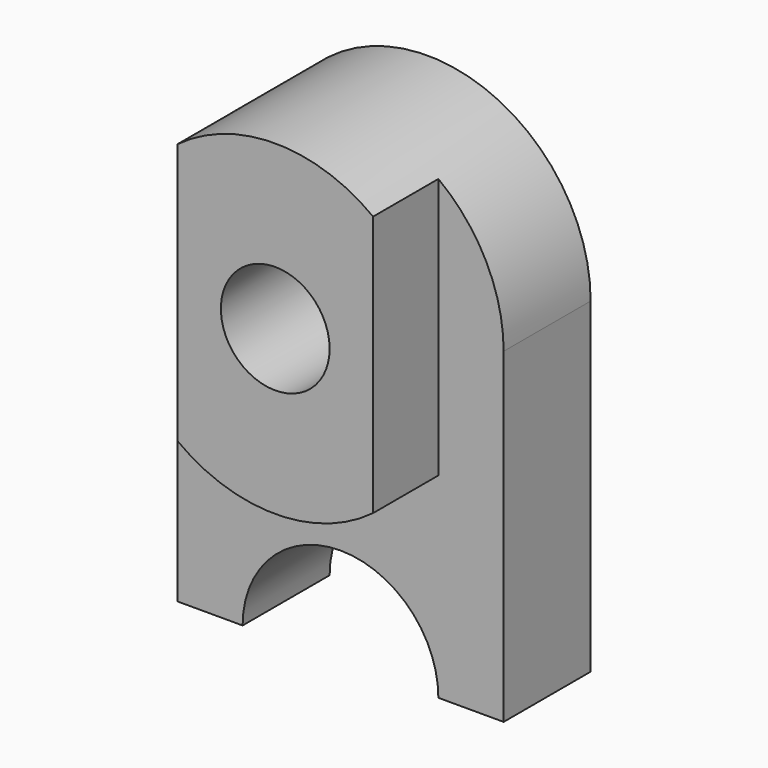
from build123d import *

# Parameters (mm, degrees)
F0_W     = 600
F0_H     = 600
F1_DEPTH = 200
F2_R     = 180
F3_DEPTH = 200.001
F5_DEPTH = 200
F7_DEPTH = 150
F8_R     = 100
F9_DEPTH = 350.001


with BuildPart() as f1:
    # F0 (on Front) → F1 (new body)
    with BuildSketch(Plane.XZ):
        Rectangle(F0_W, F0_H)
    extrude(amount=F1_DEPTH)

    # F2 (on face) → F3 (cut, through all)
    with BuildSketch(Plane.XZ.offset(200)):
        with Locations((0, -300)):
            Circle(F2_R)
    extrude(amount=-F3_DEPTH, mode=Mode.SUBTRACT)

    # F4 (on face) → F5 (join)
    with BuildSketch(Plane.XZ.offset(200)):
        with BuildLine():
            Line((-300, 300), (300, 300))
            ThreePointArc((300, 300), (0, 600), (-300, 300))
        make_face()
        with BuildLine():
            Line((-300, 300), (300, 300))
            ThreePointArc((300, 300), (0, 600), (-300, 300))
        make_face()
    extrude(amount=-F5_DEPTH)

    # F6 (on face) → F7 (join)
    with BuildSketch(Plane.XZ.offset(200)):
        with BuildLine():
            Line((-180, 540), (-180, 60))
            ThreePointArc((-180, 60), (0, 0), (180, 60))
            Line((180, 60), (180, 540))
            ThreePointArc((180, 540), (0, 600), (-180, 540))
        make_face()
    extrude(amount=F7_DEPTH)

    # F8 (on face) → F9 (cut, through all)
    with BuildSketch(Plane.XZ.offset(350)):
        with Locations((0, 300)):
            Circle(F8_R)
    extrude(amount=-F9_DEPTH, mode=Mode.SUBTRACT)


solid = f1.part
